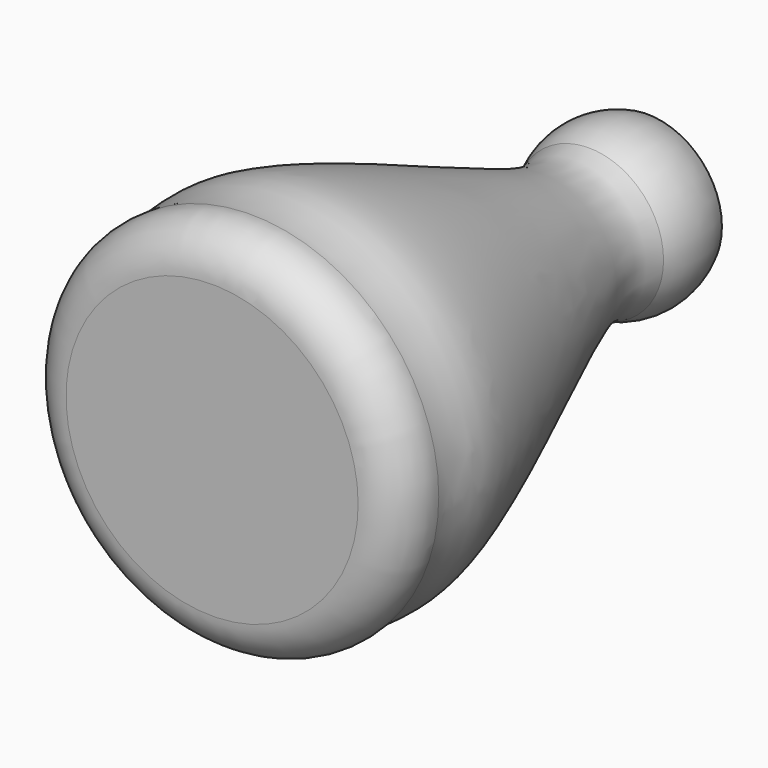
from build123d import *


with BuildPart() as f1:
    # F0 (on Top) → F1 (revolve)
    with BuildSketch(Plane.XY):
        with BuildLine():
            add(Edge.make_bspline(
                [(11.2726595253, 15.0451224868), (10.4649756428, 12.2835487466), (9.1718545697, 7.5710166755), (31.6159948462, -37.399468077), (27.599284052, -44.319399599), (28.3079163308, -48.6487245483)],
                knots=[0, 0, 0, 0, 0.2014048018, 0.6925324553, 0.9063553209, 0.9063553209, 0.9063553209, 0.9063553209], degree=3))
            ThreePointArc((11.2726595253, 15.0451224868), (12.5913713958, 20.5512062), (11.2726595253, 26.0572899133))
            Line((11.2726595253, 26.0572899133), (9.5298085362, 26.0572899133))
            ThreePointArc((9.5298085362, 26.0572899133), (10.8622082911, 20.4935744405), (9.5298085362, 14.9298589677))
            add(Edge.make_bspline(
                [(9.5298085362, 14.9298589677), (8.4948533616, 11.2362715123), (8.836842351, 3.0798210381), (17.2821878649, -17.7412580526), (29.0222023112, -54.905804099), (10.8927619791, -55.1713038591), (0, -54.0351904929)],
                knots=[0, 0, 0, 0, 0.1784379475, 0.4432299947, 0.7443764088, 1, 1, 1, 1], degree=3))
            Line((0, -54.0351904929), (0, -56.0244550765))
            Line((0, -56.0244550765), (22.0413082463, -56.0244550765))
            ThreePointArc((22.0413082463, -56.0244550765), (26.8805173167, -53.7859700738), (28.3079163308, -48.6487245483))
        make_face()
    revolve(axis=Axis((0, -10.8070373535, 0), (0, -1, 0)))


solid = f1.part
